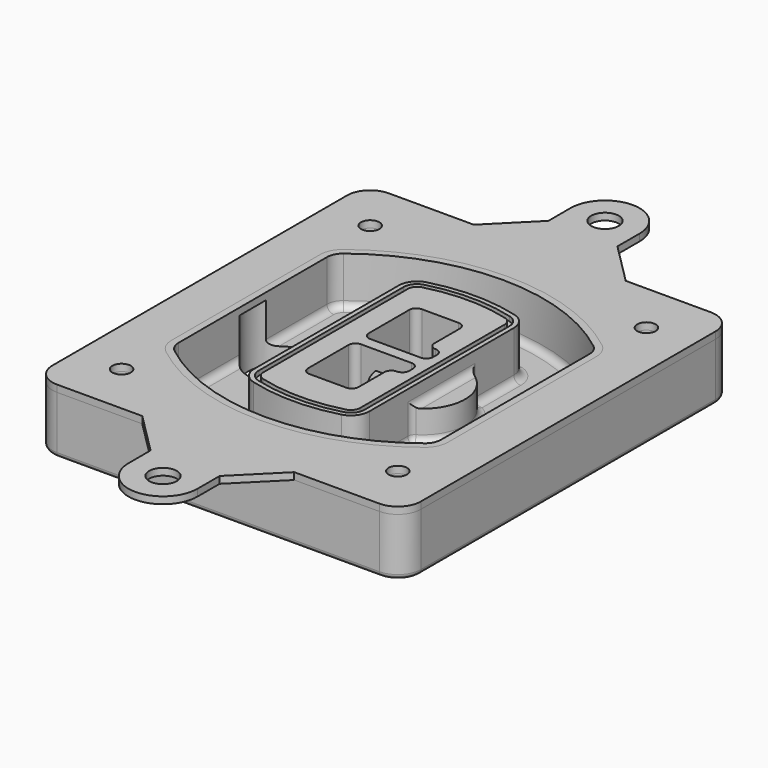
from build123d import *

# Parameters (mm, degrees)
F0_R      = 4
F1_DEPTH  = 25
F2_DEPTH  = 3
F3_DEPTH  = 18
F5_DEPTH  = 21
F6_DEPTH  = 2
F8_DEPTH  = 20
F9_DEPTH  = 16
F10_DEPTH = 25
F7_R      = 6
F7_R_2    = 4
F11_DEPTH = 6
F13_DEPTH = 9
F14_R     = 3
F15_R     = 2
F16_R     = 4
F16_R_2   = 6
F17_DEPTH = 3


with BuildPart() as f1:
    # F0 (on Top) → F1 (new body)
    with BuildSketch(Plane.XY):
        with BuildLine():
            ThreePointArc((-80, -80), (-77.0710678119, -87.0710678119), (-70, -90))
            Line((-70, -90), (70, -90))
            ThreePointArc((70, -90), (77.0710678119, -87.0710678119), (80, -80))
            Line((80, -80), (80, 80))
            ThreePointArc((80, 80), (77.0710678119, 87.0710678119), (70, 90))
            Line((70, 90), (-70, 90))
            ThreePointArc((-70, 90), (-77.0710678119, 87.0710678119), (-80, 80))
            Line((-80, 80), (-80, -80))
        make_face()
        with Locations((-60, -67.5)):
            Circle(F0_R, mode=Mode.SUBTRACT)
        with Locations((60, -67.5)):
            Circle(F0_R, mode=Mode.SUBTRACT)
        with Locations((-60, 67.5)):
            Circle(F0_R, mode=Mode.SUBTRACT)
        with BuildLine():
            ThreePointArc((-64, 40.2934422872), (-62.5820384798, 46.4328484224), (-58.6153846154, 51.3286200352))
            ThreePointArc((-58.6153846154, 51.3286200352), (0, 71.5), (58.6153846154, 51.3286200352))
            ThreePointArc((58.6153846154, 51.3286200352), (62.5820384798, 46.4328484224), (64, 40.2934422872))
            Line((64, 40.2934422872), (64, -40.2934422872))
            ThreePointArc((64, -40.2934422872), (62.5820384798, -46.4328484224), (58.6153846154, -51.3286200352))
            ThreePointArc((58.6153846154, -51.3286200352), (0, -71.5), (-58.6153846154, -51.3286200352))
            ThreePointArc((-58.6153846154, -51.3286200352), (-62.5820384798, -46.4328484224), (-64, -40.2934422872))
            Line((-64, -40.2934422872), (-64, 40.2934422872))
        make_face(mode=Mode.SUBTRACT)
        with Locations((60, 67.5)):
            Circle(F0_R, mode=Mode.SUBTRACT)
        with BuildLine():
            ThreePointArc((58.6153846154, 51.3286200352), (0, 71.5), (-58.6153846154, 51.3286200352))
            ThreePointArc((-58.6153846154, 51.3286200352), (-62.5820384798, 46.4328484224), (-64, 40.2934422872))
            Line((-64, 40.2934422872), (-64, -40.2934422872))
            ThreePointArc((-64, -40.2934422872), (-62.5820384798, -46.4328484224), (-58.6153846154, -51.3286200352))
            ThreePointArc((-58.6153846154, -51.3286200352), (0, -71.5), (58.6153846154, -51.3286200352))
            ThreePointArc((58.6153846154, -51.3286200352), (62.5820384798, -46.4328484224), (64, -40.2934422872))
            Line((64, -40.2934422872), (64, 40.2934422872))
            ThreePointArc((64, 40.2934422872), (62.5820384798, 46.4328484224), (58.6153846154, 51.3286200352))
        make_face()
        with BuildLine():
            Line((-60, -40.2934422872), (-60, 40.2934422872))
            ThreePointArc((-60, 40.2934422872), (-58.9871703427, 44.6787323838), (-56.1538461538, 48.1757121072))
            ThreePointArc((-56.1538461538, 48.1757121072), (0, 67.5), (56.1538461538, 48.1757121072))
            ThreePointArc((56.1538461538, 48.1757121072), (58.9871703427, 44.6787323838), (60, 40.2934422872))
            Line((60, 40.2934422872), (60, -40.2934422872))
            ThreePointArc((60, -40.2934422872), (58.9871703427, -44.6787323838), (56.1538461538, -48.1757121072))
            ThreePointArc((56.1538461538, -48.1757121072), (0, -67.5), (-56.1538461538, -48.1757121072))
            ThreePointArc((-56.1538461538, -48.1757121072), (-58.9871703427, -44.6787323838), (-60, -40.2934422872))
        make_face(mode=Mode.SUBTRACT)
        with BuildLine():
            ThreePointArc((-56.1538461538, 48.1757121072), (-58.9871703427, 44.6787323838), (-60, 40.2934422872))
            Line((-60, 40.2934422872), (-60, -40.2934422872))
            ThreePointArc((-60, -40.2934422872), (-58.9871703427, -44.6787323838), (-56.1538461538, -48.1757121072))
            ThreePointArc((-56.1538461538, -48.1757121072), (0, -67.5), (56.1538461538, -48.1757121072))
            ThreePointArc((56.1538461538, -48.1757121072), (58.9871703427, -44.6787323838), (60, -40.2934422872))
            Line((60, -40.2934422872), (60, 40.2934422872))
            ThreePointArc((60, 40.2934422872), (58.9871703427, 44.6787323838), (56.1538461538, 48.1757121072))
            ThreePointArc((56.1538461538, 48.1757121072), (0, 67.5), (-56.1538461538, 48.1757121072))
        make_face()
        with BuildLine():
            ThreePointArc((54.3076923077, 45.8110311612), (56.2910192399, 43.3631453548), (57, 40.2934422872))
            Line((57, 40.2934422872), (57, -40.2934422872))
            ThreePointArc((57, -40.2934422872), (56.2910192399, -43.3631453548), (54.3076923077, -45.8110311612))
            ThreePointArc((54.3076923077, -45.8110311612), (0, -64.5), (-54.3076923077, -45.8110311612))
            ThreePointArc((-54.3076923077, -45.8110311612), (-56.2910192399, -43.3631453548), (-57, -40.2934422872))
            Line((-57, -40.2934422872), (-57, 40.2934422872))
            ThreePointArc((-57, 40.2934422872), (-56.2910192399, 43.3631453548), (-54.3076923077, 45.8110311612))
            ThreePointArc((-54.3076923077, 45.8110311612), (0, 64.5), (54.3076923077, 45.8110311612))
        make_face(mode=Mode.SUBTRACT)
        with BuildLine():
            Line((57, -40.2934422872), (57, 40.2934422872))
            ThreePointArc((57, 40.2934422872), (56.2910192399, 43.3631453548), (54.3076923077, 45.8110311612))
            ThreePointArc((54.3076923077, 45.8110311612), (0, 64.5), (-54.3076923077, 45.8110311612))
            ThreePointArc((-54.3076923077, 45.8110311612), (-56.2910192399, 43.3631453548), (-57, 40.2934422872))
            Line((-57, 40.2934422872), (-57, -40.2934422872))
            ThreePointArc((-57, -40.2934422872), (-56.2910192399, -43.3631453548), (-54.3076923077, -45.8110311612))
            ThreePointArc((-54.3076923077, -45.8110311612), (0, -64.5), (54.3076923077, -45.8110311612))
            ThreePointArc((54.3076923077, -45.8110311612), (56.2910192399, -43.3631453548), (57, -40.2934422872))
        make_face()
    extrude(amount=-F1_DEPTH)

    # F0 (on Top) → F2 (join)
    with BuildSketch(Plane.XY):
        with BuildLine():
            ThreePointArc((-56.1538461538, 48.1757121072), (-58.9871703427, 44.6787323838), (-60, 40.2934422872))
            Line((-60, 40.2934422872), (-60, -40.2934422872))
            ThreePointArc((-60, -40.2934422872), (-58.9871703427, -44.6787323838), (-56.1538461538, -48.1757121072))
            ThreePointArc((-56.1538461538, -48.1757121072), (0, -67.5), (56.1538461538, -48.1757121072))
            ThreePointArc((56.1538461538, -48.1757121072), (58.9871703427, -44.6787323838), (60, -40.2934422872))
            Line((60, -40.2934422872), (60, 40.2934422872))
            ThreePointArc((60, 40.2934422872), (58.9871703427, 44.6787323838), (56.1538461538, 48.1757121072))
            ThreePointArc((56.1538461538, 48.1757121072), (0, 67.5), (-56.1538461538, 48.1757121072))
        make_face()
        with BuildLine():
            ThreePointArc((54.3076923077, 45.8110311612), (56.2910192399, 43.3631453548), (57, 40.2934422872))
            Line((57, 40.2934422872), (57, -40.2934422872))
            ThreePointArc((57, -40.2934422872), (56.2910192399, -43.3631453548), (54.3076923077, -45.8110311612))
            ThreePointArc((54.3076923077, -45.8110311612), (0, -64.5), (-54.3076923077, -45.8110311612))
            ThreePointArc((-54.3076923077, -45.8110311612), (-56.2910192399, -43.3631453548), (-57, -40.2934422872))
            Line((-57, -40.2934422872), (-57, 40.2934422872))
            ThreePointArc((-57, 40.2934422872), (-56.2910192399, 43.3631453548), (-54.3076923077, 45.8110311612))
            ThreePointArc((-54.3076923077, 45.8110311612), (0, 64.5), (54.3076923077, 45.8110311612))
        make_face(mode=Mode.SUBTRACT)
    extrude(amount=F2_DEPTH)

    # F0 (on Top) → F3 (cut)
    with BuildSketch(Plane.XY):
        with BuildLine():
            Line((57, -40.2934422872), (57, 40.2934422872))
            ThreePointArc((57, 40.2934422872), (56.2910192399, 43.3631453548), (54.3076923077, 45.8110311612))
            ThreePointArc((54.3076923077, 45.8110311612), (0, 64.5), (-54.3076923077, 45.8110311612))
            ThreePointArc((-54.3076923077, 45.8110311612), (-56.2910192399, 43.3631453548), (-57, 40.2934422872))
            Line((-57, 40.2934422872), (-57, -40.2934422872))
            ThreePointArc((-57, -40.2934422872), (-56.2910192399, -43.3631453548), (-54.3076923077, -45.8110311612))
            ThreePointArc((-54.3076923077, -45.8110311612), (0, -64.5), (54.3076923077, -45.8110311612))
            ThreePointArc((54.3076923077, -45.8110311612), (56.2910192399, -43.3631453548), (57, -40.2934422872))
        make_face()
    extrude(amount=-F3_DEPTH, mode=Mode.SUBTRACT)

    # F4 (on face) → F5 (join, through all)
    with BuildSketch(Plane.XY.offset(3)):
        with BuildLine():
            ThreePointArc((-25, -39.2465276821), (-23.3511545998, -44.1109737193), (-19.0842911877, -46.9702398883))
            ThreePointArc((-19.0842911877, -46.9702398883), (0, -49.5), (19.0842911877, -46.9702398883))
            ThreePointArc((19.0842911877, -46.9702398883), (23.3511545998, -44.1109737193), (25, -39.2465276821))
            Line((25, -39.2465276821), (25, 39.2465276821))
            ThreePointArc((25, 39.2465276821), (23.3511545998, 44.1109737193), (19.0842911877, 46.9702398883))
            ThreePointArc((19.0842911877, 46.9702398883), (0, 49.5), (-19.0842911877, 46.9702398883))
            ThreePointArc((-19.0842911877, 46.9702398883), (-23.3511545998, 44.1109737193), (-25, 39.2465276821))
            Line((-25, 39.2465276821), (-25, -39.2465276821))
        make_face()
        with BuildLine():
            ThreePointArc((18.5632183908, 45.0393118368), (21.7633659499, 42.89486221), (23, 39.2465276821))
            Line((23, 39.2465276821), (23, -39.2465276821))
            ThreePointArc((23, -39.2465276821), (21.7633659499, -42.89486221), (18.5632183908, -45.0393118368))
            ThreePointArc((18.5632183908, -45.0393118368), (0, -47.5), (-18.5632183908, -45.0393118368))
            ThreePointArc((-18.5632183908, -45.0393118368), (-21.7633659499, -42.89486221), (-23, -39.2465276821))
            Line((-23, -39.2465276821), (-23, 39.2465276821))
            ThreePointArc((-23, 39.2465276821), (-21.7633659499, 42.89486221), (-18.5632183908, 45.0393118368))
            ThreePointArc((-18.5632183908, 45.0393118368), (0, 47.5), (18.5632183908, 45.0393118368))
        make_face(mode=Mode.SUBTRACT)
        with BuildLine():
            Line((23, -39.2465276821), (23, 39.2465276821))
            ThreePointArc((23, 39.2465276821), (21.7633659499, 42.89486221), (18.5632183908, 45.0393118368))
            ThreePointArc((18.5632183908, 45.0393118368), (0, 47.5), (-18.5632183908, 45.0393118368))
            ThreePointArc((-18.5632183908, 45.0393118368), (-21.7633659499, 42.89486221), (-23, 39.2465276821))
            Line((-23, 39.2465276821), (-23, -39.2465276821))
            ThreePointArc((-23, -39.2465276821), (-21.7633659499, -42.89486221), (-18.5632183908, -45.0393118368))
            ThreePointArc((-18.5632183908, -45.0393118368), (0, -47.5), (18.5632183908, -45.0393118368))
            ThreePointArc((18.5632183908, -45.0393118368), (21.7633659499, -42.89486221), (23, -39.2465276821))
        make_face()
        with BuildLine():
            ThreePointArc((18.0421455939, 43.1083837852), (20.1755772999, 41.6787507007), (21, 39.2465276821))
            Line((21, 39.2465276821), (21, -39.2465276821))
            ThreePointArc((21, -39.2465276821), (20.1755772999, -41.6787507007), (18.0421455939, -43.1083837852))
            ThreePointArc((18.0421455939, -43.1083837852), (0, -45.5), (-18.0421455939, -43.1083837852))
            ThreePointArc((-18.0421455939, -43.1083837852), (-20.1755772999, -41.6787507007), (-21, -39.2465276821))
            Line((-21, -39.2465276821), (-21, 39.2465276821))
            ThreePointArc((-21, 39.2465276821), (-20.1755772999, 41.6787507007), (-18.0421455939, 43.1083837852))
            ThreePointArc((-18.0421455939, 43.1083837852), (0, 45.5), (18.0421455939, 43.1083837852))
        make_face(mode=Mode.SUBTRACT)
        with BuildLine():
            Line((21, -39.2465276821), (21, 39.2465276821))
            ThreePointArc((21, 39.2465276821), (20.1755772999, 41.6787507007), (18.0421455939, 43.1083837852))
            ThreePointArc((18.0421455939, 43.1083837852), (0, 45.5), (-18.0421455939, 43.1083837852))
            ThreePointArc((-18.0421455939, 43.1083837852), (-20.1755772999, 41.6787507007), (-21, 39.2465276821))
            Line((-21, 39.2465276821), (-21, -39.2465276821))
            ThreePointArc((-21, -39.2465276821), (-20.1755772999, -41.6787507007), (-18.0421455939, -43.1083837852))
            ThreePointArc((-18.0421455939, -43.1083837852), (0, -45.5), (18.0421455939, -43.1083837852))
            ThreePointArc((18.0421455939, -43.1083837852), (20.1755772999, -41.6787507007), (21, -39.2465276821))
        make_face()
        with BuildLine():
            Line((-8, -2.5), (14, -2.5))
            ThreePointArc((14, -2.5), (16.1213203436, -3.3786796564), (17, -5.5))
            Line((17, -5.5), (17, -7.5))
            ThreePointArc((17, -7.5), (16.1213203436, -9.6213203436), (14, -10.5))
            ThreePointArc((14, -10.5), (11.8786796564, -11.3786796564), (11, -13.5))
            Line((11, -13.5), (11, -27.5))
            ThreePointArc((11, -27.5), (10.1213203436, -29.6213203436), (8, -30.5))
            Line((8, -30.5), (-8, -30.5))
            ThreePointArc((-8, -30.5), (-10.1213203436, -29.6213203436), (-11, -27.5))
            Line((-11, -27.5), (-11, -5.5))
            ThreePointArc((-11, -5.5), (-10.1213203436, -3.3786796564), (-8, -2.5))
        make_face(mode=Mode.SUBTRACT)
        with BuildLine():
            ThreePointArc((-8, 2.5), (-10.1213203436, 3.3786796564), (-11, 5.5))
            Line((-11, 5.5), (-11, 27.5))
            ThreePointArc((-11, 27.5), (-10.1213203436, 29.6213203436), (-8, 30.5))
            Line((-8, 30.5), (8, 30.5))
            ThreePointArc((8, 30.5), (10.1213203436, 29.6213203436), (11, 27.5))
            Line((11, 27.5), (11, 13.5))
            ThreePointArc((11, 13.5), (11.8786796564, 11.3786796564), (14, 10.5))
            ThreePointArc((14, 10.5), (16.1213203436, 9.6213203436), (17, 7.5))
            Line((17, 7.5), (17, 5.5))
            ThreePointArc((17, 5.5), (16.1213203436, 3.3786796564), (14, 2.5))
            Line((14, 2.5), (-8, 2.5))
        make_face(mode=Mode.SUBTRACT)
    extrude(amount=-F5_DEPTH)

    # F4 (on face) → F6 (cut)
    with BuildSketch(Plane.XY.offset(3)):
        with BuildLine():
            Line((23, -39.2465276821), (23, 39.2465276821))
            ThreePointArc((23, 39.2465276821), (21.7633659499, 42.89486221), (18.5632183908, 45.0393118368))
            ThreePointArc((18.5632183908, 45.0393118368), (0, 47.5), (-18.5632183908, 45.0393118368))
            ThreePointArc((-18.5632183908, 45.0393118368), (-21.7633659499, 42.89486221), (-23, 39.2465276821))
            Line((-23, 39.2465276821), (-23, -39.2465276821))
            ThreePointArc((-23, -39.2465276821), (-21.7633659499, -42.89486221), (-18.5632183908, -45.0393118368))
            ThreePointArc((-18.5632183908, -45.0393118368), (0, -47.5), (18.5632183908, -45.0393118368))
            ThreePointArc((18.5632183908, -45.0393118368), (21.7633659499, -42.89486221), (23, -39.2465276821))
        make_face()
        with BuildLine():
            ThreePointArc((18.0421455939, 43.1083837852), (20.1755772999, 41.6787507007), (21, 39.2465276821))
            Line((21, 39.2465276821), (21, -39.2465276821))
            ThreePointArc((21, -39.2465276821), (20.1755772999, -41.6787507007), (18.0421455939, -43.1083837852))
            ThreePointArc((18.0421455939, -43.1083837852), (0, -45.5), (-18.0421455939, -43.1083837852))
            ThreePointArc((-18.0421455939, -43.1083837852), (-20.1755772999, -41.6787507007), (-21, -39.2465276821))
            Line((-21, -39.2465276821), (-21, 39.2465276821))
            ThreePointArc((-21, 39.2465276821), (-20.1755772999, 41.6787507007), (-18.0421455939, 43.1083837852))
            ThreePointArc((-18.0421455939, 43.1083837852), (0, 45.5), (18.0421455939, 43.1083837852))
        make_face(mode=Mode.SUBTRACT)
    extrude(amount=-F6_DEPTH, mode=Mode.SUBTRACT)

    # F7 (on face) → F8 (join)
    with BuildSketch(Plane(origin=(0, 0, -25), x_dir=(1, 0, 0), z_dir=(0, 0, -1))):
        with BuildLine():
            ThreePointArc((3.28842436, 0), (16.7567035675, 13.4682792075), (30.224982775, 0))
            Line((30.224982775, 0), (35.224982775, 0))
            ThreePointArc((35.224982775, 0), (16.7567035675, 18.4682792075), (-1.71157564, 0))
            Line((-1.71157564, 0), (3.28842436, 0))
        make_face()
        with BuildLine():
            Line((3.28842436, 0), (30.224982775, 0))
            ThreePointArc((30.224982775, 0), (16.7567035675, 13.4682792075), (3.28842436, 0))
        make_face()
        with BuildLine():
            ThreePointArc((3.28842436, 0), (16.7567035675, -13.4682792075), (30.224982775, 0))
            Line((30.224982775, 0), (3.28842436, 0))
        make_face()
        with BuildLine():
            Line((35.224982775, 0), (30.224982775, 0))
            ThreePointArc((30.224982775, 0), (16.7567035675, -13.4682792075), (3.28842436, 0))
            Line((3.28842436, 0), (-1.71157564, 0))
            ThreePointArc((-1.71157564, 0), (16.7567035675, -18.4682792075), (35.224982775, 0))
        make_face()
    extrude(amount=-F8_DEPTH)

    # F7 (on face) → F9 (cut)
    with BuildSketch(Plane(origin=(0, 0, -25), x_dir=(1, 0, 0), z_dir=(0, 0, -1))):
        with BuildLine():
            Line((3.28842436, 0), (30.224982775, 0))
            ThreePointArc((30.224982775, 0), (16.7567035675, 13.4682792075), (3.28842436, 0))
        make_face()
        with BuildLine():
            ThreePointArc((3.28842436, 0), (16.7567035675, -13.4682792075), (30.224982775, 0))
            Line((30.224982775, 0), (3.28842436, 0))
        make_face()
    extrude(amount=-F9_DEPTH, mode=Mode.SUBTRACT)

    # F7 (on face) → F10 (cut)
    with BuildSketch(Plane(origin=(0, 0, -25), x_dir=(1, 0, 0), z_dir=(0, 0, -1))):
        with BuildLine():
            Line((-59.0318229325, 0), (-32.0952645175, 0))
            ThreePointArc((-32.0952645175, 0), (-45.563543725, 13.4682792075), (-59.0318229325, 0))
        make_face()
        with BuildLine():
            ThreePointArc((-59.0318229325, 0), (-45.563543725, -13.4682792075), (-32.0952645175, 0))
            Line((-32.0952645175, 0), (-59.0318229325, 0))
        make_face()
    extrude(amount=-F10_DEPTH, mode=Mode.SUBTRACT)

    # F7 (on face) → F11 (cut)
    with BuildSketch(Plane(origin=(0, 0, -25), x_dir=(1, 0, 0), z_dir=(0, 0, -1))):
        with Locations((60, -67.5)):
            Circle(F7_R)
        with Locations((60, -67.5)):
            Circle(F7_R_2, mode=Mode.SUBTRACT)
        with Locations((60, -67.5)):
            Circle(F7_R)
        with Locations((60, -67.5)):
            Circle(F7_R_2, mode=Mode.SUBTRACT)
        with Locations((-60, -67.5)):
            Circle(F7_R)
        with Locations((-60, -67.5)):
            Circle(F7_R_2, mode=Mode.SUBTRACT)
        with Locations((-60, -67.5)):
            Circle(F7_R)
        with Locations((-60, -67.5)):
            Circle(F7_R_2, mode=Mode.SUBTRACT)
        with Locations((-60, 67.5)):
            Circle(F7_R)
        with Locations((-60, 67.5)):
            Circle(F7_R_2, mode=Mode.SUBTRACT)
        with Locations((-60, 67.5)):
            Circle(F7_R)
        with Locations((-60, 67.5)):
            Circle(F7_R_2, mode=Mode.SUBTRACT)
        with Locations((60, 67.5)):
            Circle(F7_R)
        with Locations((60, 67.5)):
            Circle(F7_R_2, mode=Mode.SUBTRACT)
        with Locations((60, 67.5)):
            Circle(F7_R)
        with Locations((60, 67.5)):
            Circle(F7_R_2, mode=Mode.SUBTRACT)
    extrude(amount=-F11_DEPTH, mode=Mode.SUBTRACT)

    # F12 (on face) → F13 (cut, through all)
    with BuildSketch(Plane(origin=(0, 0, -9), x_dir=(1, 0, 0), z_dir=(0, 0, -1))):
        with BuildLine():
            Line((11, 13.5), (11, 17.5481537753))
            ThreePointArc((11, 17.5481537753), (2.5696536419, 11.8239143813), (-1.5415842455, 2.5))
            Line((-1.5415842455, 2.5), (3.5224848595, 2.5))
            ThreePointArc((3.5224848595, 2.5), (6.1857188154, 8.3455872281), (11.2536447004, 12.2927168648))
            ThreePointArc((11.2536447004, 12.2927168648), (11.0640958889, 12.8831798879), (11, 13.5))
        make_face()
        with BuildLine():
            ThreePointArc((11.2536447004, -12.2927168648), (6.1857188154, -8.3455872281), (3.5224848595, -2.5))
            Line((3.5224848595, -2.5), (-1.5415842455, -2.5))
            ThreePointArc((-1.5415842455, -2.5), (2.5696536419, -11.8239143813), (11, -17.5481537753))
            Line((11, -17.5481537753), (11, -13.5))
            ThreePointArc((11, -13.5), (11.0640958889, -12.8831798879), (11.2536447004, -12.2927168648))
        make_face()
        with BuildLine():
            ThreePointArc((11.2536447004, 12.2927168648), (6.1857188154, 8.3455872281), (3.5224848595, 2.5))
            Line((3.5224848595, 2.5), (14, 2.5))
            ThreePointArc((14, 2.5), (16.1213203436, 3.3786796564), (17, 5.5))
            Line((17, 5.5), (17, 7.5))
            ThreePointArc((17, 7.5), (16.1213203436, 9.6213203436), (14, 10.5))
            ThreePointArc((14, 10.5), (12.3601599782, 10.9878446101), (11.2536447004, 12.2927168648))
        make_face()
        with BuildLine():
            Line((14, -2.5), (3.5224848595, -2.5))
            ThreePointArc((3.5224848595, -2.5), (6.1857188154, -8.3455872281), (11.2536447004, -12.2927168648))
            ThreePointArc((11.2536447004, -12.2927168648), (12.3601599782, -10.9878446101), (14, -10.5))
            ThreePointArc((14, -10.5), (16.1213203436, -9.6213203436), (17, -7.5))
            Line((17, -7.5), (17, -5.5))
            ThreePointArc((17, -5.5), (16.1213203436, -3.3786796564), (14, -2.5))
        make_face()
    extrude(amount=F13_DEPTH, mode=Mode.SUBTRACT)

    # F14
    f14_edges = [f1.edges().sort_by_distance(p)[0] for p in [
        (-57, -23.703476, -18),
        (-57, 23.703476, -18),
        (25, 0, -5),
        (25, 16.526506, -11.5),
        (25, -16.526506, -11.5),
        (25, -27.886517, -18),
        (35.224983, 0, -18),
    ]]
    fillet(f14_edges, radius=F14_R)

    # F15
    f15_edges = [f1.edges().sort_by_distance(p)[0] for p in [
        (0, -90, -25),
    ]]
    fillet(f15_edges, radius=F15_R)


with BuildPart() as f17:
    # F16 (on face) → F17 (new body, through all)
    with BuildSketch(Plane.XY):
        with BuildLine():
            Line((-33, 90), (-70, 90))
            ThreePointArc((-70, 90), (-77.0710678119, 87.0710678119), (-80, 80))
            Line((-80, 80), (-80, -80))
            ThreePointArc((-80, -80), (-77.0710678119, -87.0710678119), (-70, -90))
            Line((-70, -90), (-33, -90))
            Line((-33, -90), (33, -90))
            Line((33, -90), (70, -90))
            ThreePointArc((70, -90), (77.0710678119, -87.0710678119), (80, -80))
            Line((80, -80), (80, 80))
            ThreePointArc((80, 80), (77.0710678119, 87.0710678119), (70, 90))
            Line((70, 90), (33, 90))
            Line((33, 90), (-33, 90))
        make_face()
        with Locations((-60, -67.5)):
            Circle(F16_R, mode=Mode.SUBTRACT)
        with Locations((60, -67.5)):
            Circle(F16_R, mode=Mode.SUBTRACT)
        with Locations((-60, 67.5)):
            Circle(F16_R, mode=Mode.SUBTRACT)
        with BuildLine():
            ThreePointArc((56.1538461538, -48.1757121072), (0, -67.5), (-56.1538461538, -48.1757121072))
            ThreePointArc((-56.1538461538, -48.1757121072), (-58.9871703427, -44.6787323838), (-60, -40.2934422872))
            Line((-60, -40.2934422872), (-60, 40.2934422872))
            ThreePointArc((-60, 40.2934422872), (-58.9871703427, 44.6787323838), (-56.1538461538, 48.1757121072))
            ThreePointArc((-56.1538461538, 48.1757121072), (0, 67.5), (56.1538461538, 48.1757121072))
            ThreePointArc((56.1538461538, 48.1757121072), (58.9871703427, 44.6787323838), (60, 40.2934422872))
            Line((60, 40.2934422872), (60, -40.2934422872))
            ThreePointArc((60, -40.2934422872), (58.9871703427, -44.6787323838), (56.1538461538, -48.1757121072))
        make_face(mode=Mode.SUBTRACT)
        with Locations((60, 67.5)):
            Circle(F16_R, mode=Mode.SUBTRACT)
        with BuildLine():
            Line((-15, 108), (-33, 90))
            Line((-33, 90), (33, 90))
            Line((33, 90), (15, 108))
            Line((15, 108), (15, 120))
            ThreePointArc((15, 120), (0, 135), (-15, 120))
            Line((-15, 120), (-15, 108))
        make_face()
        with Locations((0, 120)):
            Circle(F16_R_2, mode=Mode.SUBTRACT)
        with BuildLine():
            Line((33, -90), (-33, -90))
            Line((-33, -90), (-15, -108))
            Line((-15, -108), (-15, -120))
            ThreePointArc((-15, -120), (0, -135), (15, -120))
            Line((15, -120), (15, -108))
            Line((15, -108), (33, -90))
        make_face()
        with Locations((0, -120)):
            Circle(F16_R_2, mode=Mode.SUBTRACT)
    extrude(amount=F17_DEPTH)


solid = Compound([f1.part, f17.part])
